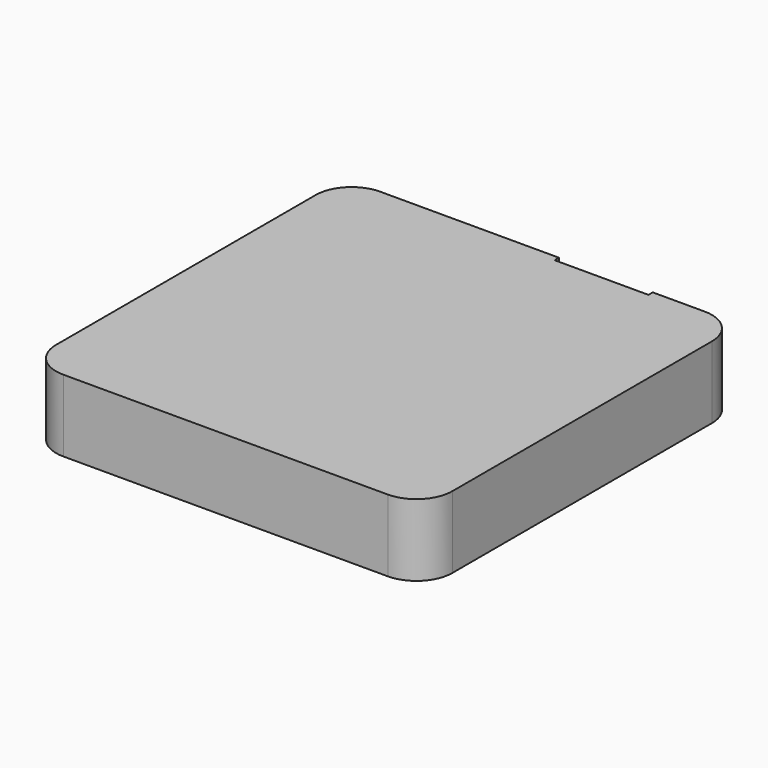
from build123d import *

# Parameters (mm, degrees)
F2_DEPTH = 24.1


with BuildPart() as f2:
    # F1 (on Top) → F2 (new body)
    with BuildSketch(Plane.XY):
        with BuildLine():
            Line((5.5, 66.3), (-54.3, 66.3))
            ThreePointArc((-54.3, 66.3), (-62.7852813742, 62.7852813742), (-66.3, 54.3))
            Line((-66.3, 54.3), (-66.3, -54.3))
            ThreePointArc((-66.3, -54.3), (-62.7852813742, -62.7852813742), (-54.3, -66.3))
            Line((-54.3, -66.3), (54.3, -66.3))
            ThreePointArc((54.3, -66.3), (62.7852813742, -62.7852813742), (66.3, -54.3))
            Line((66.3, -54.3), (66.3, 54.3))
            ThreePointArc((66.3, 54.3), (62.7852813742, 62.7852813742), (54.3, 66.3))
            Line((54.3, 66.3), (36.9, 66.3))
            Line((36.9, 66.3), (36.9, 64.5))
            Line((36.9, 64.5), (5.5, 64.5))
            Line((5.5, 64.5), (5.5, 66.3))
        make_face()
    extrude(amount=F2_DEPTH)


solid = f2.part
